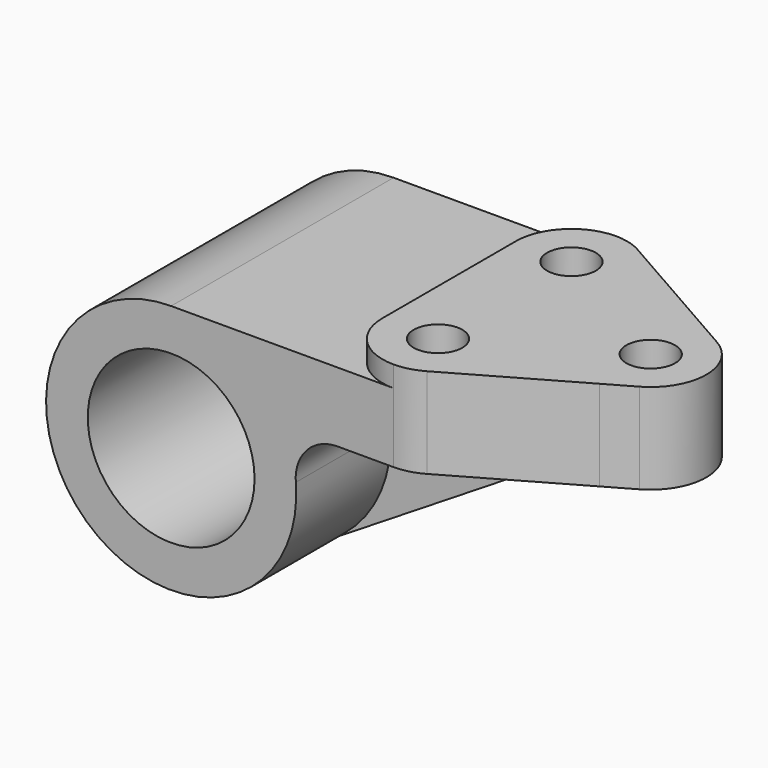
from build123d import *

# Parameters (mm, degrees)
F0_R     = 19.05
F1_DEPTH = 31.75
F3_DEPTH = 4.7752
F4_DEPTH = 25.4
F5_DEPTH = 15.875
F6_R     = 5.5626
F7_DEPTH = 25.4
F9_DEPTH = 4.7625


with BuildPart() as f1:
    # F0 (on Front) → F1 (new body, symmetric)
    with BuildSketch(Plane.XZ):
        with BuildLine():
            Line((50.8, 28.575), (0, 28.575))
            ThreePointArc((0, 28.575), (-19.345366451, -21.0306305629), (28.4756083945, 2.38125))
            ThreePointArc((28.4756083945, 2.38125), (30.9572676717, 9.6234554837), (37.9674778593, 12.7))
            Line((37.9674778593, 12.7), (84.1502, 12.7))
            Line((84.1502, 12.7), (84.1502, 28.575))
            Line((84.1502, 28.575), (50.8, 28.575))
        make_face()
        Circle(F0_R, mode=Mode.SUBTRACT)
    extrude(amount=F1_DEPTH, both=True)

    # F2 (on face) → F3 (join)
    with BuildSketch(Plane.XY.offset(28.575)):
        with BuildLine():
            ThreePointArc((57.0991554441, 30.0777214642), (54.0586759125, 31.3248128824), (50.8, 31.75))
            ThreePointArc((50.8, 31.75), (41.8197438789, 28.0302561211), (38.1, 19.05))
            Line((38.1, 19.05), (38.1, -19.05))
            ThreePointArc((38.1, -19.05), (41.8197438789, -28.0302561211), (50.8, -31.75))
            ThreePointArc((50.8, -31.75), (54.0586759125, -31.3248128824), (57.0991554441, -30.0777214642))
            Line((57.0991554441, -30.0777214642), (84.1502, -14.6258681382))
            Line((84.1502, -14.6258681382), (84.1502, 14.6258681382))
            Line((84.1502, 14.6258681382), (57.0991554441, 30.0777214642))
        make_face()
        with BuildLine():
            Line((90.4493554441, 11.0277214642), (84.1502, 14.6258681382))
            Line((84.1502, 14.6258681382), (84.1502, -14.6258681382))
            Line((84.1502, -14.6258681382), (90.4493554441, -11.0277214642))
            ThreePointArc((90.4493554441, -11.0277214642), (96.8502, 0), (90.4493554441, 11.0277214642))
        make_face()
    extrude(amount=F3_DEPTH)

    # F4 (cut): faces of the model
    f4_faces = [f1.faces().sort_by_distance(p)[0] for p in [
        (74.0820927094, -26.0620767359, 28.575),
        (74.0820927094, 26.0620767359, 28.575),
    ]]
    extrude(f4_faces, amount=-F4_DEPTH, mode=Mode.SUBTRACT)

    # F5 (add): a face of the model
    f5_faces = [f1.faces().sort_by_distance(p)[0] for p in [
        (89.4188774971, 0, 28.575),
    ]]
    extrude(f5_faces, amount=F5_DEPTH)

    # F6 (on face) → F7 (cut)
    with BuildSketch(Plane.XY.offset(33.3502)):
        with Locations((50.8, 19.05)):
            Circle(F6_R)
        with Locations((50.8, -19.05)):
            Circle(F6_R)
        with Locations((84.1502, 0)):
            Circle(F6_R)
    extrude(amount=-F7_DEPTH, mode=Mode.SUBTRACT)

    # F8 (on Front) → F9 (join, symmetric)
    with BuildSketch(Plane.XZ):
        with BuildLine():
            ThreePointArc((28.4756083945, 2.38125), (25.5411965246, -12.813192619), (15.1157573119, -24.2496289846))
            Line((15.1157573119, -24.2496289846), (74.392628163, 12.7))
            Line((74.392628163, 12.7), (57.0991554441, 12.7))
            Line((57.0991554441, 12.7), (50.8, 12.7))
            Line((50.8, 12.7), (37.9674778593, 12.7))
            ThreePointArc((37.9674778593, 12.7), (30.9572676717, 9.6234554837), (28.4756083945, 2.38125))
        make_face()
    extrude(amount=F9_DEPTH, both=True)


solid = f1.part
